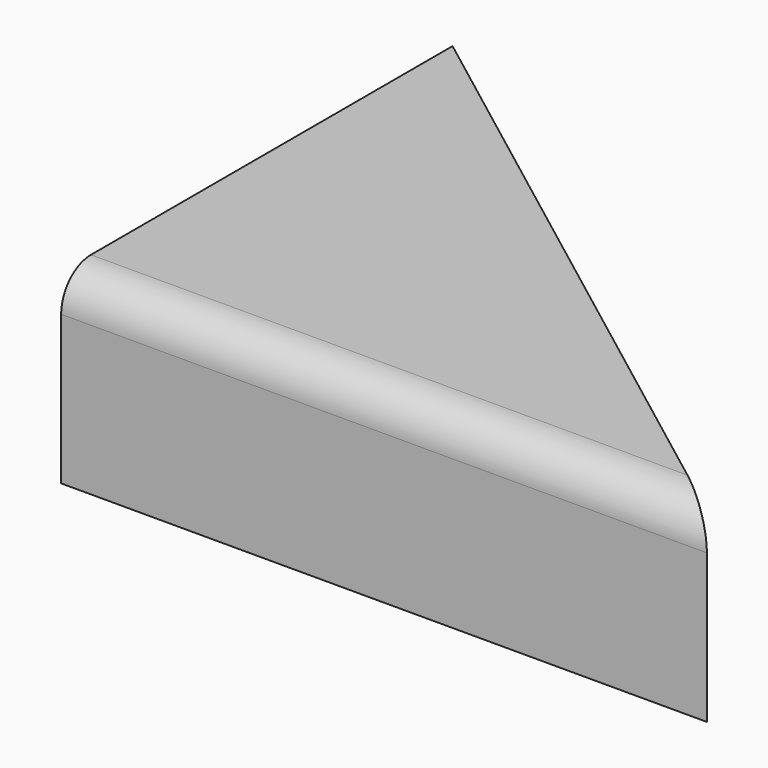
from build123d import *

# Parameters (mm, degrees)
F1_DEPTH = 25.4
F2_R     = 5.08


with BuildPart() as f1:
    # F0 (on Top) → F1 (new body)
    with BuildSketch(Plane.XY):
        Polygon((50.532632, -26.770264), (-37.598684, 40.005002), (-37.598684, -26.770264), align=None)
    extrude(amount=F1_DEPTH)

    # F2
    f2_edges = [f1.edges().sort_by_distance(p)[0] for p in [
        (6.466974, -26.770264, 25.4),
    ]]
    fillet(f2_edges, radius=F2_R)


solid = f1.part
